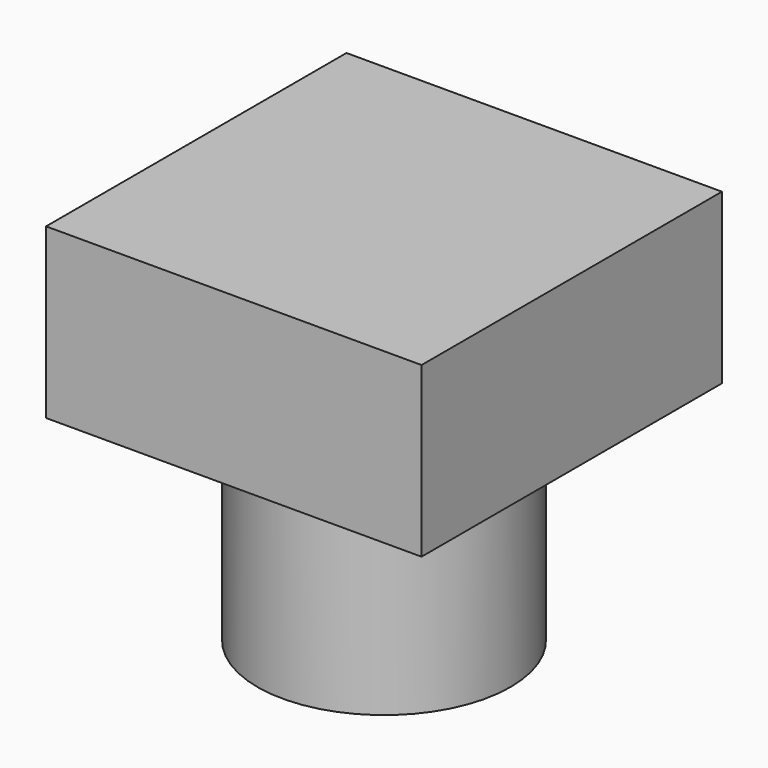
from build123d import *

# Parameters (mm, degrees)
F0_W     = 89
F0_H     = 89
F1_DEPTH = 40
F2_R     = 30
F3_DEPTH = 50


with BuildPart() as f1:
    # F0 (on Top) → F1 (new body)
    with BuildSketch(Plane.XY):
        Rectangle(F0_W, F0_H)
    extrude(amount=F1_DEPTH)

    # F2 (on face) → F3 (join)
    with BuildSketch(Plane(origin=(0, 0, 0), x_dir=(1, 0, 0), z_dir=(0, 0, -1))):
        Circle(F2_R)
    extrude(amount=F3_DEPTH)


solid = f1.part
